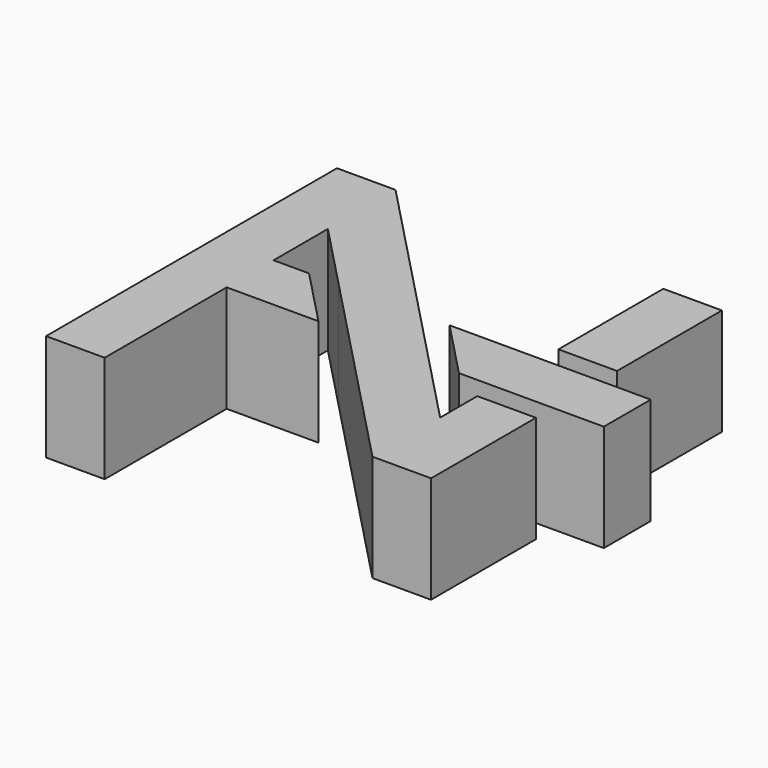
from build123d import *

# Parameters (mm, degrees)
F1_DEPTH = 5
F0_W     = 2.74
F0_H     = 6.13


with BuildPart() as f1:
    # F0 (on Top) → F1 (new body)
    with BuildSketch(Plane.XY):
        Polygon((3.7852868945, -5.5575805881), (-1.8907454386, 0.3556721484), (-5.6887609137, 0.3556721484), (3.7852868945, -9.5143278516), (6.5252868945, -9.5143278516), (6.5252868945, -3.3843278516), (3.7852868945, -3.3843278516), align=None)
        Polygon((-11.4747131055, 7.4856721484), (-11.4747131055, -9.5143278516), (-8.7347131055, -9.5143278516), (-8.7347131055, -2.3843278516), (-4.4448178072, -2.3843278516), (-7.0748979485, 0.3556721484), (-8.7347131055, 0.3556721484), (-8.7347131055, 3.5289248848), (-5.6887609137, 0.3556721484), (-1.8907454386, 0.3556721484), (-8.7347131055, 7.4856721484), align=None)
    extrude(amount=F1_DEPTH)


with BuildPart() as f1b:
    # F0 (on Top) → F1, piece 2 (new body)
    with BuildSketch(Plane.XY):
        with Locations((5.1552868945, 4.4206721484)):
            Rectangle(F0_W, F0_H)
    extrude(amount=F1_DEPTH)


with BuildPart() as f1c:
    # F0 (on Top) → F1, piece 3 (new body)
    with BuildSketch(Plane.XY):
        Polygon((8.8997455651, -2.3843278516), (8.8997455651, 0.3556721484), (-0.5046084038, 0.3556721484), (2.1254717375, -2.3843278516), align=None)
    extrude(amount=F1_DEPTH)


solid = Compound([f1.part, f1b.part, f1c.part])
